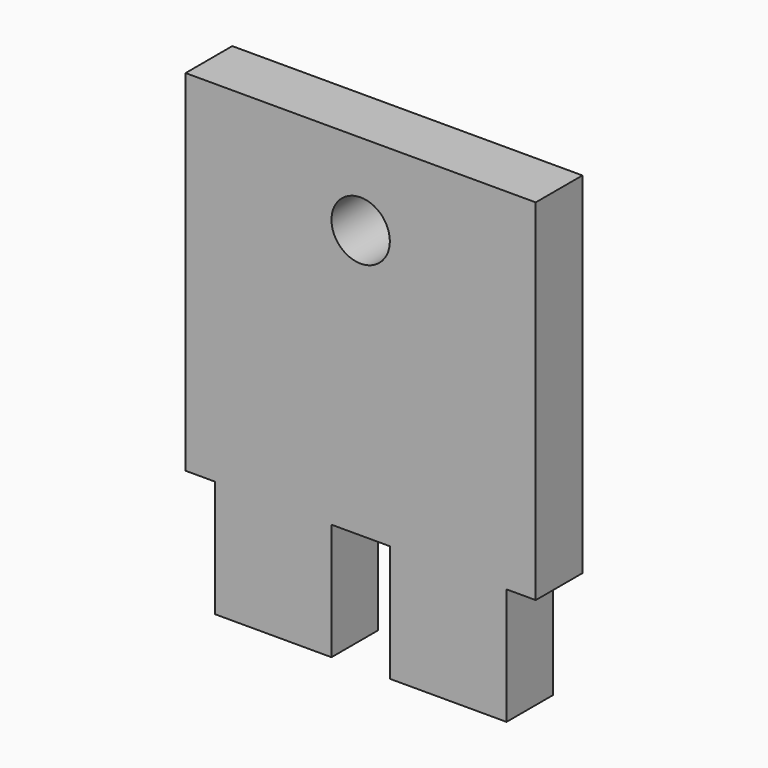
from build123d import *

# Parameters (mm, degrees)
F0_W     = 38.1
F0_H     = 50.8
F1_DEPTH = 6.35
F2_R     = 3.175
F3_DEPTH = 6.351
F4_W     = 3.175
F4_H     = 12.7
F5_DEPTH = 6.351
F6_W     = 6.35
F6_H     = 12.7
F7_DEPTH = 25.4


with BuildPart() as f1:
    # F0 (on Front) → F1 (new body)
    with BuildSketch(Plane.XZ):
        with Locations((4.588721, 7.131216)):
            Rectangle(F0_W, F0_H)
    extrude(amount=F1_DEPTH)

    # F2 (on face) → F3 (cut, through all)
    with BuildSketch(Plane.XZ.offset(6.35)):
        with Locations((4.588721, 23.641216)):
            Circle(F2_R)
    extrude(amount=-F3_DEPTH, mode=Mode.SUBTRACT)

    # F4 (on face) → F5 (cut, through all)
    with BuildSketch(Plane.XZ.offset(6.35)):
        with Locations((-12.873779, -11.918784)):
            Rectangle(F4_W, F4_H)
        with Locations((22.051221, -11.918784)):
            Rectangle(F4_W, F4_H)
    extrude(amount=-F5_DEPTH, mode=Mode.SUBTRACT)

    # F6 (on face) → F7 (cut)
    with BuildSketch(Plane.XZ.offset(6.35)):
        with Locations((4.588721, -11.918784)):
            Rectangle(F6_W, F6_H)
    extrude(amount=-F7_DEPTH, mode=Mode.SUBTRACT)


solid = f1.part
